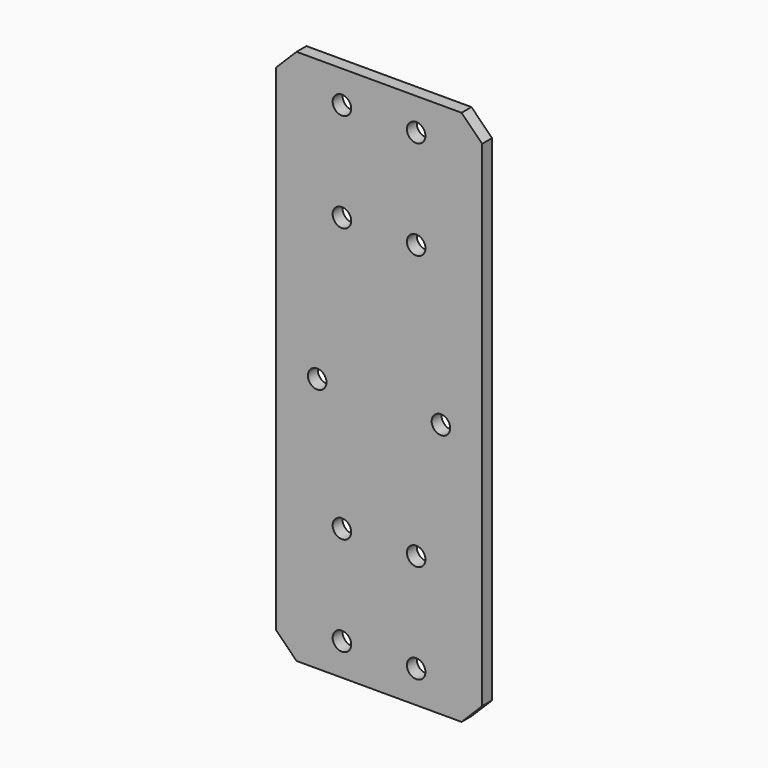
from build123d import *

# Parameters (mm, degrees)
F0_W     = 50
F0_H     = 130
F0_R     = 2.25
F1_DEPTH = 1.5
F2_SIZE  = 5


with BuildPart() as f1:
    # F0 (on Front) → F1 (new body, symmetric)
    with BuildSketch(Plane.XZ):
        with Locations((25, 65)):
            Rectangle(F0_W, F0_H)
        with Locations((16, 7.8)):
            Circle(F0_R, mode=Mode.SUBTRACT)
        with Locations((16, 31.8)):
            Circle(F0_R, mode=Mode.SUBTRACT)
        with Locations((10, 61.8)):
            Circle(F0_R, mode=Mode.SUBTRACT)
        with Locations((34, 7.8)):
            Circle(F0_R, mode=Mode.SUBTRACT)
        with Locations((34, 31.8)):
            Circle(F0_R, mode=Mode.SUBTRACT)
        with Locations((40, 61.8)):
            Circle(F0_R, mode=Mode.SUBTRACT)
        with Locations((16, 98.2)):
            Circle(F0_R, mode=Mode.SUBTRACT)
        with Locations((16, 122.2)):
            Circle(F0_R, mode=Mode.SUBTRACT)
        with Locations((34, 98.2)):
            Circle(F0_R, mode=Mode.SUBTRACT)
        with Locations((34, 122.2)):
            Circle(F0_R, mode=Mode.SUBTRACT)
    extrude(amount=F1_DEPTH, both=True)

    # F2
    f2_edges = [f1.edges().sort_by_distance(p)[0] for p in [
        (0, 0, 0),
        (50, 0, 0),
        (0, 0, 130),
        (50, 0, 130),
    ]]
    chamfer(f2_edges, length=F2_SIZE)


solid = f1.part
